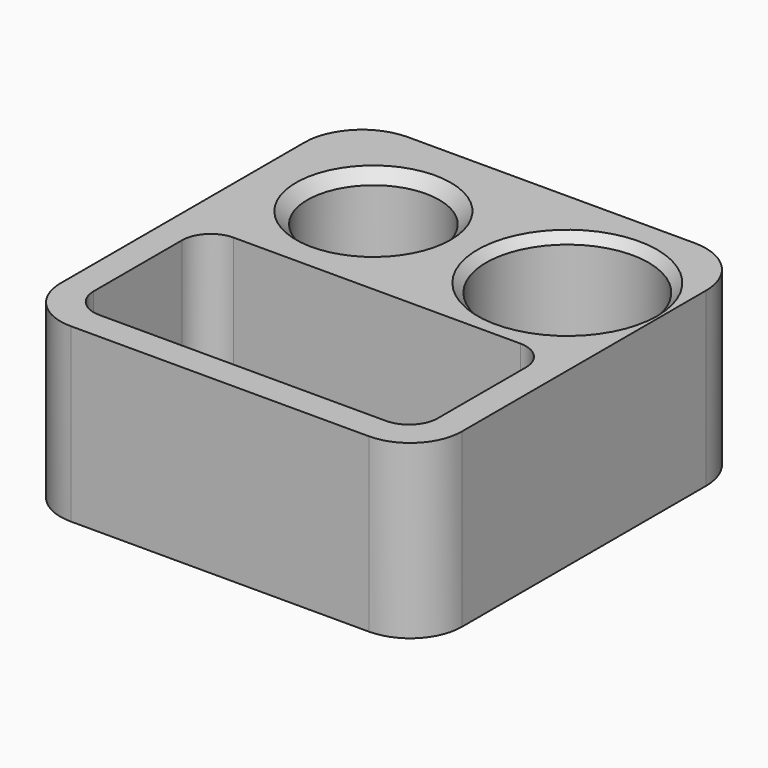
from build123d import *

# Parameters (mm, degrees)
SKETCH_R        = 2.3
SKETCH_R_2      = 2.834
SKETCH_W        = 12
SKETCH_H        = 5.85
PAD_DEPTH       = 6
FILLET_R        = 1
CHAMFER_SIZE    = 0.4
CHAMFER001_SIZE = 0.3
FILLET001_R     = 1.8


with BuildPart() as part:
    # Sketch (on XY_Plane of Origin) → Pad (new body)
    with BuildSketch(Plane.XY):
        with BuildLine():
            Line((7, 15.5), (7, 3.055))
            Line((7, 3.055), (-7, 3.055))
            Line((-7, 3.055), (-7, 15.5))
            ThreePointArc((-7, 15.5), (-6.414214, 16.914214), (-5, 17.5))
            Line((-5, 17.5), (5, 17.5))
            ThreePointArc((5, 17.5), (6.414214, 16.914214), (7, 15.5))
        make_face()
        with Locations((-3, 13.5)):
            Circle(SKETCH_R, mode=Mode.SUBTRACT)
        with Locations((3.766, 13.5)):
            Circle(SKETCH_R_2, mode=Mode.SUBTRACT)
        with Locations((0, 6.98)):
            Rectangle(SKETCH_W, SKETCH_H, mode=Mode.SUBTRACT)
    extrude(amount=PAD_DEPTH)

    # Fillet
    fillet_edges = [part.edges().sort_by_distance(p)[0] for p in [
        (6, 9.905, 3),
        (6, 4.055, 3),
        (-6, 9.905, 3),
        (-6, 4.055, 3),
    ]]
    fillet(fillet_edges, radius=FILLET_R)

    # Chamfer
    chamfer_edges = [part.edges().sort_by_distance(p)[0] for p in [
        (-5.3, 13.5, 0),
        (-5.3, 13.5, 6),
    ]]
    chamfer(chamfer_edges, length=CHAMFER_SIZE)

    # Chamfer001
    chamfer001_edges = [part.edges().sort_by_distance(p)[0] for p in [
        (0.932, 13.5, 6),
    ]]
    chamfer(chamfer001_edges, length=CHAMFER001_SIZE)

    # Fillet001
    fillet001_edges = [part.edges().sort_by_distance(p)[0] for p in [
        (-7, 3.055, 3),
        (7, 3.055, 3),
    ]]
    fillet(fillet001_edges, radius=FILLET001_R)


with BuildPart() as part_1:
    # Body placement: moved
    add(part.part.moved(Location((0, 0, 0.8))))


solid = part_1.part
